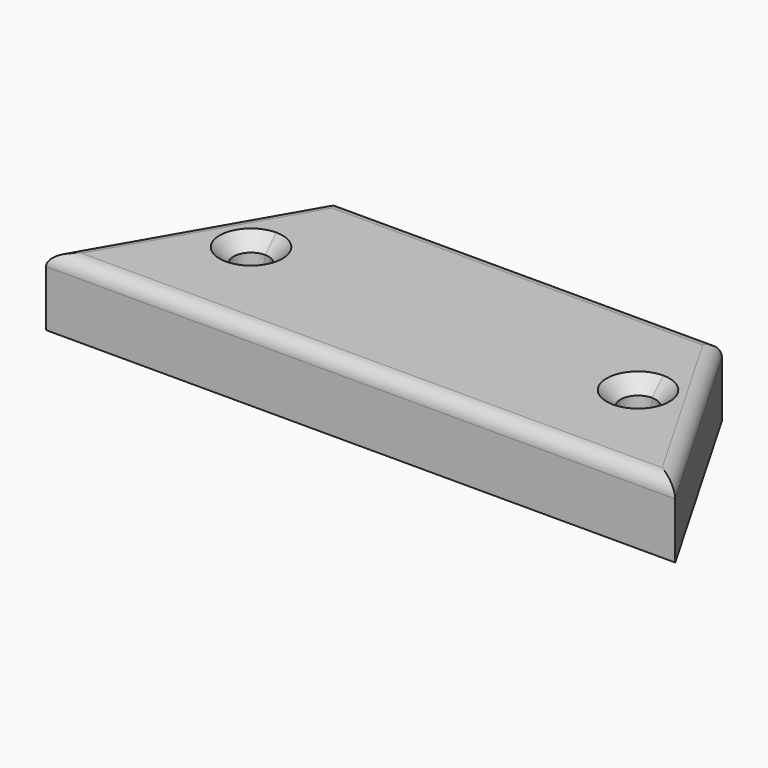
from build123d import *

# Parameters (mm, degrees)
F1_DEPTH = 25.4
F2_SIZE  = 5.08
F3_R     = 5.08


with BuildPart() as f1:
    # F0 (on Top) → F1 (new body)
    with BuildSketch(Plane.XY):
        with BuildLine():
            Line((-70.3059094878, 6.35), (-70.3059094878, 38.1))
            Line((-70.3059094878, 38.1), (-114.3, -38.1))
            Line((-114.3, -38.1), (-70.3059094878, -38.1))
            Line((-70.3059094878, -38.1), (-70.3059094878, -6.35))
            ThreePointArc((-70.3059094878, -6.35), (-76.6559094878, 0), (-70.3059094878, 6.35))
        make_face()
        with BuildLine():
            Line((70.3059094878, 6.35), (70.3059094878, 38.1))
            Line((70.3059094878, 38.1), (-70.3059094878, 38.1))
            Line((-70.3059094878, 38.1), (-70.3059094878, 6.35))
            ThreePointArc((-70.3059094878, 6.35), (-65.8157814272, 4.4901280605), (-63.9559094878, 0))
            ThreePointArc((-63.9559094878, 0), (-65.8157814272, -4.4901280605), (-70.3059094878, -6.35))
            Line((-70.3059094878, -6.35), (-70.3059094878, -38.1))
            Line((-70.3059094878, -38.1), (70.3059094878, -38.1))
            Line((70.3059094878, -38.1), (70.3059094878, -6.35))
            ThreePointArc((70.3059094878, -6.35), (63.9559094878, 0), (70.3059094878, 6.35))
        make_face()
        with BuildLine():
            Line((114.3, -38.1), (70.3059094878, 38.1))
            Line((70.3059094878, 38.1), (70.3059094878, 6.35))
            ThreePointArc((70.3059094878, 6.35), (74.7960375483, 4.4901280605), (76.6559094878, 0))
            ThreePointArc((76.6559094878, 0), (74.7960375483, -4.4901280605), (70.3059094878, -6.35))
            Line((70.3059094878, -6.35), (70.3059094878, -38.1))
            Line((70.3059094878, -38.1), (114.3, -38.1))
        make_face()
    extrude(amount=F1_DEPTH)

    # F2
    f2_edges = [f1.edges().sort_by_distance(p)[0] for p in [
        (-70.305909, -6.35, 25.4),
        (70.305909, -6.35, 25.4),
    ]]
    chamfer(f2_edges, length=F2_SIZE)

    # F3
    f3_edges = [f1.edges().sort_by_distance(p)[0] for p in [
        (0, -38.1, 25.4),
        (-92.302955, 0, 25.4),
        (0, 38.1, 25.4),
        (92.302955, 0, 25.4),
    ]]
    fillet(f3_edges, radius=F3_R)


solid = f1.part
